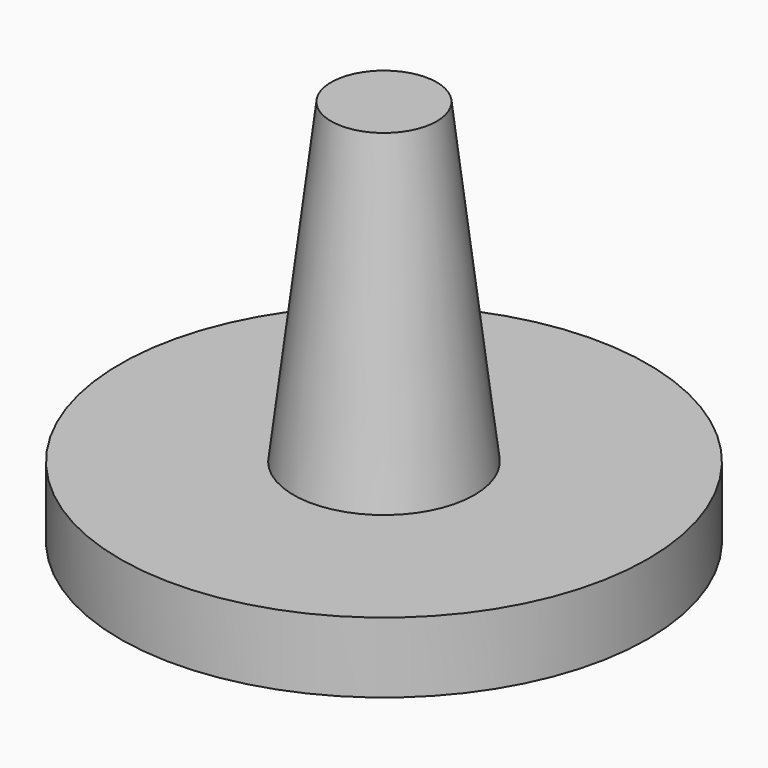
from build123d import *

# Parameters (mm, degrees)
CYLINDER022_R     = 15
CYLINDER022_DEPTH = 4


with BuildPart() as cono_brazo_central_base:
    # Cone → Cone (revolve)
    with BuildSketch(Plane(origin=(71.5, 2.5, 27), x_dir=(1, 0, 0), z_dir=(0, 1, 0))):
        Polygon((0, 0), (3, 0), (5.5, 21), (0, 21), align=None)
    revolve(axis=Axis((71.5, 2.5, 27), (0, 0, -1)))


with BuildPart() as union_base_brazo_central:
    # Cylinder022 → Cylinder022 (new body)
    with BuildSketch(Plane(origin=(71.5, 2.5, 5), x_dir=(1, 0, 0), z_dir=(0, 0, 1))):
        Circle(CYLINDER022_R)
    extrude(amount=CYLINDER022_DEPTH)

    # Fusion015: union Cono brazo central/base
    add(cono_brazo_central_base.part)


solid = union_base_brazo_central.part
